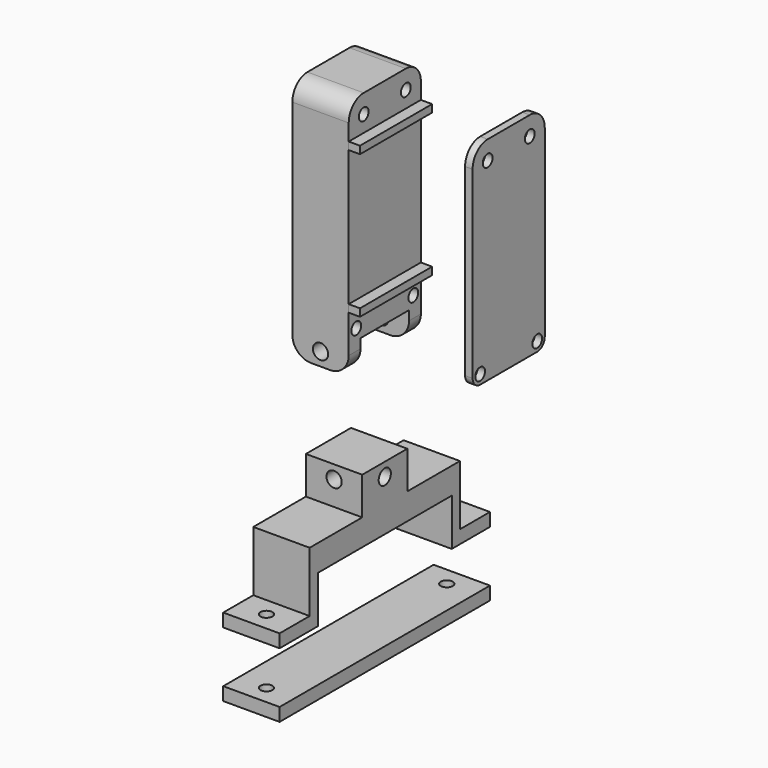
from build123d import *

# Parameters (mm, degrees)
F0_W      = 30
F0_H      = 100
F1_DEPTH  = 70
F2_W      = 30
F2_H      = 30
F3_DEPTH  = 20
F4_W      = 48.0175241828
F4_H      = 24.0684449673
F5_DEPTH  = 15
F6_W      = 30
F6_H      = 7.847
F7_DEPTH  = 15
F8_W      = 30
F8_H      = 7.847
F9_DEPTH  = 15
F10_R     = 10
F11_R     = 10
F12_R     = 10
F13_R     = 10
F14_R     = 4.05
F15_DEPTH = 31.5
F16_R     = 4.05
F17_DEPTH = 49.5
F18_W     = 30
F18_H     = 48.0175241828
F19_DEPTH = 90
F20_R     = 10
F21_R     = 10
F22_W     = 48.01752
F22_H     = 4
F23_DEPTH = 6
F24_W     = 4
F24_H     = 113
F25_DEPTH = 24
F26_R     = 10
F27_R     = 10
F28_R     = 3.25
F29_DEPTH = 95.9695533643
F30_R     = 5
F31_R     = 5
F32_R     = 3.25
F33_DEPTH = 34.6
F34_R     = 3.25
F35_DEPTH = 25
F36_R     = 3.25
F37_DEPTH = 108.8
F38_R     = 3.25
F39_DEPTH = 95.9695533643
F40_W     = 30
F40_H     = 100
F41_DEPTH = 31
F42_W     = 30
F42_H     = 7
F43_DEPTH = 20
F44_W     = 30
F44_H     = 7
F45_DEPTH = 20
F48_W     = 140
F48_H     = 7
F49_DEPTH = 15
F47_R     = 3.2
F50_DEPTH = 55.5
F46_R     = 3.2
F51_DEPTH = 61.8
F52_W     = 30
F52_H     = 89.1749337316
F53_DEPTH = 25
F54_R     = 4.05
F55_DEPTH = 32.4


with BuildPart() as f1:
    # F0 (on Top) → F1 (new body)
    with BuildSketch(Plane.XY):
        Rectangle(F0_W, F0_H)
    extrude(amount=F1_DEPTH)

    # F2 (on face) → F3 (join)
    with BuildSketch(Plane.XY.offset(70)):
        Rectangle(F2_W, F2_H)
    extrude(amount=F3_DEPTH)

    # F14 (on face) → F15 (cut)
    with BuildSketch(Plane.XZ.offset(15)):
        with Locations((0, 82.95)):
            Circle(F14_R)
    extrude(amount=-F15_DEPTH, mode=Mode.SUBTRACT)

    # F40 (on face) → F41 (cut)
    with BuildSketch(Plane(origin=(0, 0, 0), x_dir=(1, 0, 0), z_dir=(0, 0, -1))):
        Rectangle(F40_W, F40_H)
    extrude(amount=-F41_DEPTH, mode=Mode.SUBTRACT)

    # F42 (on face) → F43 (join)
    with BuildSketch(Plane(origin=(0, 50, 0), x_dir=(-1, 0, 0), z_dir=(0, 1, 0))):
        with Locations((0, 34.5)):
            Rectangle(F42_W, F42_H)
    extrude(amount=F43_DEPTH)

    # F44 (on face) → F45 (join)
    with BuildSketch(Plane.XZ.offset(50)):
        with Locations((0, 34.5)):
            Rectangle(F44_W, F44_H)
    extrude(amount=F45_DEPTH)


with BuildPart() as f5:
    # F4 (on Right) → F5 (new body, symmetric)
    with BuildSketch(Plane.YZ):
        with Locations((0, 166.5257066488)):
            Rectangle(F4_W, F4_H)
    extrude(amount=F5_DEPTH, both=True)

    # F6 (on face) → F7 (join)
    with BuildSketch(Plane(origin=(0, 0, 154.4914841652), x_dir=(1, 0, 0), z_dir=(0, 0, -1))):
        with Locations((0, -20.0852620914)):
            Rectangle(F6_W, F6_H)
    extrude(amount=F7_DEPTH)

    # F8 (on face) → F9 (join)
    with BuildSketch(Plane(origin=(0, 0, 154.4914841652), x_dir=(1, 0, 0), z_dir=(0, 0, -1))):
        with Locations((0, 20.0852620914)):
            Rectangle(F8_W, F8_H)
    extrude(amount=F9_DEPTH)

    # F10
    f10_edges = [f5.edges().sort_by_distance(p)[0] for p in [
        (15, -20.085262, 139.491484),
    ]]
    fillet(f10_edges, radius=F10_R)

    # F11
    f11_edges = [f5.edges().sort_by_distance(p)[0] for p in [
        (-15, -20.085262, 139.491484),
    ]]
    fillet(f11_edges, radius=F11_R)

    # F12
    f12_edges = [f5.edges().sort_by_distance(p)[0] for p in [
        (15, 20.085262, 139.491484),
    ]]
    fillet(f12_edges, radius=F12_R)

    # F13
    f13_edges = [f5.edges().sort_by_distance(p)[0] for p in [
        (-15, 20.085262, 139.491484),
    ]]
    fillet(f13_edges, radius=F13_R)

    # F16 (on face) → F17 (cut)
    with BuildSketch(Plane.XZ.offset(24.0087620914)):
        with Locations((0, 146.5414841652)):
            Circle(F16_R)
    extrude(amount=-F17_DEPTH, mode=Mode.SUBTRACT)

    # F18 (on face) → F19 (join)
    with BuildSketch(Plane.XY.offset(178.5599291325)):
        Rectangle(F18_W, F18_H)
    extrude(amount=F19_DEPTH)

    # F20
    f20_edges = [f5.edges().sort_by_distance(p)[0] for p in [
        (0, 24.008762, 268.559929),
    ]]
    fillet(f20_edges, radius=F20_R)

    # F21
    f21_edges = [f5.edges().sort_by_distance(p)[0] for p in [
        (0, -24.008762, 268.559929),
    ]]
    fillet(f21_edges, radius=F21_R)

    # F22 (on face) → F23 (join)
    with BuildSketch(Plane.YZ.offset(15)):
        with Locations((0, 247.8152513504)):
            Rectangle(F22_W, F22_H)
        with Locations((0, 171.6152513504)):
            Rectangle(F22_W, F22_H)
    extrude(amount=F23_DEPTH)

    # F32 (on face) → F33 (cut)
    with BuildSketch(Plane(origin=(-15, 0, 0), x_dir=(0, -1, 0), z_dir=(-1, 0, 0))):
        with Locations((-14.0087620914, 258.5599291325)):
            Circle(F32_R)
        with Locations((14.0087620914, 258.5599291325)):
            Circle(F32_R)
    extrude(amount=-F33_DEPTH, mode=Mode.SUBTRACT)


with BuildPart() as f25:
    # F24 (on Front) → F25 (new body, symmetric)
    with BuildSketch(Plane.XZ):
        with Locations((78.9685533643, 211.7639752626)):
            Rectangle(F24_W, F24_H)
    extrude(amount=F25_DEPTH, both=True)

    # F26
    f26_edges = [f25.edges().sort_by_distance(p)[0] for p in [
        (78.968553, -24, 268.263975),
    ]]
    fillet(f26_edges, radius=F26_R)

    # F27
    f27_edges = [f25.edges().sort_by_distance(p)[0] for p in [
        (78.968553, 24, 268.263975),
    ]]
    fillet(f27_edges, radius=F27_R)

    # F28 (on face) → F29 (cut, through all)
    with BuildSketch(Plane.YZ.offset(80.9685533643)):
        with Locations((-14, 258.2639752626)):
            Circle(F28_R)
    extrude(amount=-F29_DEPTH, mode=Mode.SUBTRACT)

    # F30
    f30_edges = [f25.edges().sort_by_distance(p)[0] for p in [
        (78.968553, -24, 155.263975),
    ]]
    fillet(f30_edges, radius=F30_R)

    # F31
    f31_edges = [f25.edges().sort_by_distance(p)[0] for p in [
        (78.968553, 24, 155.263975),
    ]]
    fillet(f31_edges, radius=F31_R)

    # F34 (on face) → F35 (cut)
    with BuildSketch(Plane.YZ.offset(80.9685533643)):
        with Locations((14, 258.2639752626)):
            Circle(F34_R)
    extrude(amount=-F35_DEPTH, mode=Mode.SUBTRACT)


with BuildPart() as f37_tool:
    # F36 (on face) → F37 (new body)
    with BuildSketch(Plane.YZ.offset(80.9685533643)):
        with Locations((-19, 160.2639752626)):
            Circle(F36_R)
    extrude(amount=-F37_DEPTH)


with BuildPart() as f5_1:
    add(f5.part)

    # F37: cut by f37_tool
    add(f37_tool.part, mode=Mode.SUBTRACT)


with BuildPart() as f25_1:
    add(f25.part)

    # F37: cut by f37_tool
    add(f37_tool.part, mode=Mode.SUBTRACT)


with BuildPart() as f39_tool:
    # F38 (on face) → F39 (new body, through all)
    with BuildSketch(Plane.YZ.offset(80.9685533643)):
        with Locations((19, 160.2639752626)):
            Circle(F38_R)
    extrude(amount=-F39_DEPTH)


with BuildPart() as f5_2:
    add(f5_1.part)

    # F39: cut by f39_tool
    add(f39_tool.part, mode=Mode.SUBTRACT)


with BuildPart() as f25_2:
    add(f25_1.part)

    # F39: cut by f39_tool
    add(f39_tool.part, mode=Mode.SUBTRACT)


with BuildPart() as f49:
    # F48 (on Right) → F49 (new body, symmetric)
    with BuildSketch(Plane.YZ):
        Rectangle(F48_W, F48_H)
    extrude(amount=F49_DEPTH, both=True)


with BuildPart() as f50_tool:
    # F47 (on face) → F50 (new body)
    with BuildSketch(Plane.XY.offset(38)):
        with Locations((0, -60)):
            Circle(F47_R)
    extrude(amount=-F50_DEPTH)


with BuildPart() as f1_1:
    add(f1.part)

    # F50: cut by f50_tool
    add(f50_tool.part, mode=Mode.SUBTRACT)


with BuildPart() as f49_1:
    add(f49.part)

    # F50: cut by f50_tool
    add(f50_tool.part, mode=Mode.SUBTRACT)


with BuildPart() as f51_tool:
    # F46 (on face) → F51 (new body)
    with BuildSketch(Plane.XY.offset(38)):
        with Locations((0, 60)):
            Circle(F46_R)
    extrude(amount=-F51_DEPTH)


with BuildPart() as f1_2:
    add(f1_1.part)

    # F51: cut by f51_tool
    add(f51_tool.part, mode=Mode.SUBTRACT)

    # F52 (on face) → F53 (cut)
    with BuildSketch(Plane(origin=(0, 0, 31), x_dir=(1, 0, 0), z_dir=(0, 0, -1))):
        Rectangle(F52_W, F52_H)
    extrude(amount=-F53_DEPTH, mode=Mode.SUBTRACT)

    # F54 (on face) → F55 (cut)
    with BuildSketch(Plane.YZ.offset(15)):
        with Locations((0, 82.95)):
            Circle(F54_R)
    extrude(amount=-F55_DEPTH, mode=Mode.SUBTRACT)


with BuildPart() as f49_2:
    add(f49_1.part)

    # F51: cut by f51_tool
    add(f51_tool.part, mode=Mode.SUBTRACT)


solid = Compound([f5_2.part, f25_2.part, f1_2.part, f49_2.part])
